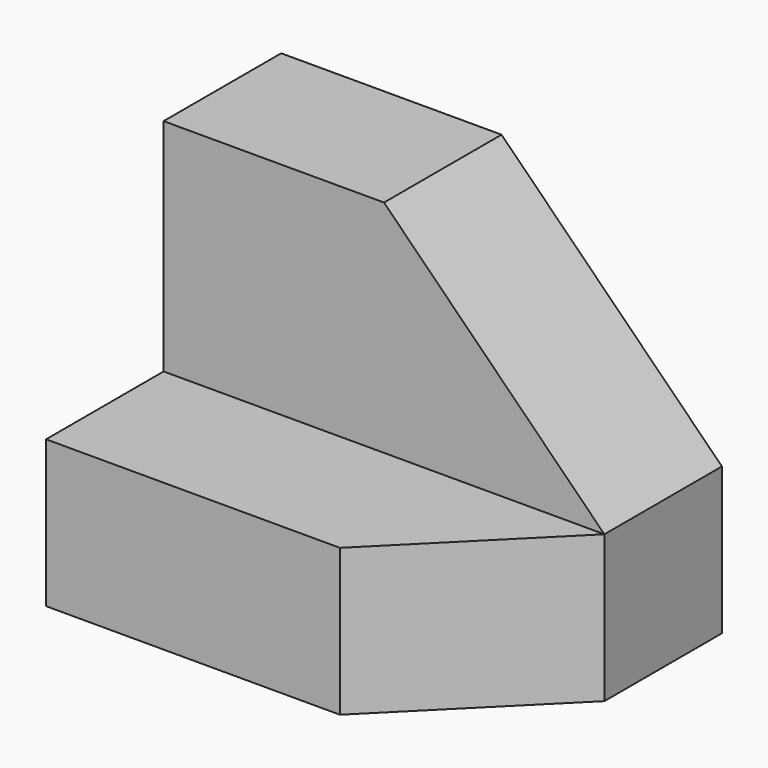
from build123d import *

# Parameters (mm, degrees)
F0_W     = 38.1
F0_H     = 31.75
F1_DEPTH = 25.4
F2_W     = 38.1
F2_H     = 12.7
F3_DEPTH = 19.05
F5_DEPTH = 25.4
F7_DEPTH = 25.4


with BuildPart() as f1:
    # F0 (on Front) → F1 (new body)
    with BuildSketch(Plane.XZ):
        with Locations((-12.07114, -12.708175)):
            Rectangle(F0_W, F0_H)
    extrude(amount=F1_DEPTH)

    # F2 (on face) → F3 (cut)
    with BuildSketch(Plane.XY.offset(3.166825)):
        with Locations((-12.07114, -19.05)):
            Rectangle(F2_W, F2_H)
    extrude(amount=-F3_DEPTH, mode=Mode.SUBTRACT)

    # F4 (on face) → F5 (cut)
    with BuildSketch(Plane.XY.offset(-15.883175)):
        Polygon((6.97886, -12.7), (-5.72114, -25.4), (6.97886, -25.4), align=None)
    extrude(amount=-F5_DEPTH, mode=Mode.SUBTRACT)

    # F6 (on face) → F7 (cut)
    with BuildSketch(Plane.XZ.offset(12.7)):
        Polygon((6.97886, 3.166825), (-12.07114, 3.166825), (6.97886, -15.883175), align=None)
    extrude(amount=-F7_DEPTH, mode=Mode.SUBTRACT)


solid = f1.part
